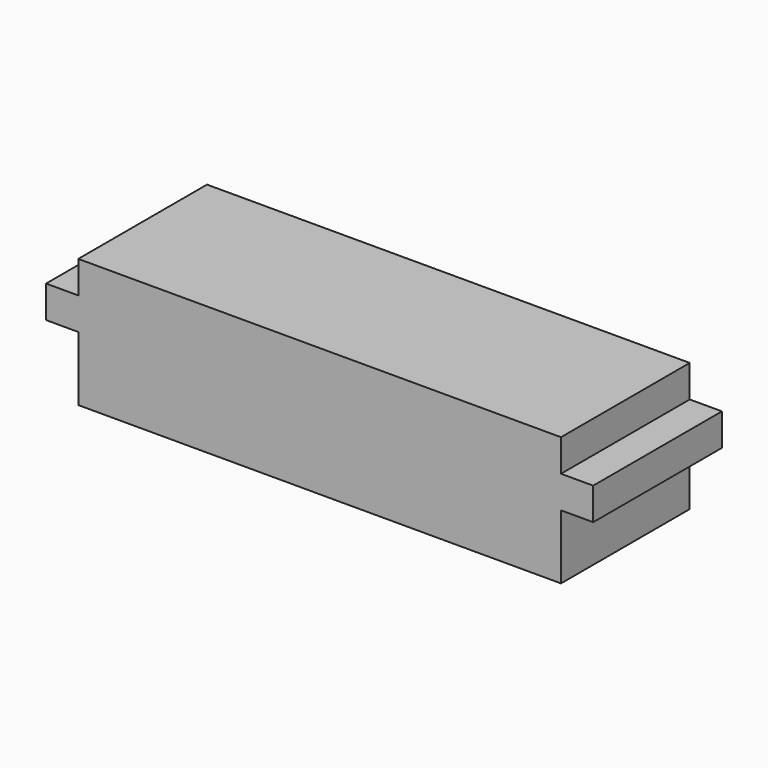
from build123d import *

# Parameters (mm, degrees)
F0_W     = 30
F0_H     = 10
F1_DEPTH = 4
F2_W     = 34
F2_H     = 10
F3_DEPTH = 2
F4_W     = 30
F4_H     = 10
F5_DEPTH = 1.5
F6_W     = 30
F6_H     = 10
F7_DEPTH = 0.5


with BuildPart() as f1:
    # F0 (on Top) → F1 (new body)
    with BuildSketch(Plane.XY):
        Rectangle(F0_W, F0_H)
    extrude(amount=F1_DEPTH)

    # F2 (on face) → F3 (join)
    with BuildSketch(Plane.XY.offset(4)):
        Rectangle(F2_W, F2_H)
    extrude(amount=F3_DEPTH)

    # F4 (on face) → F5 (join)
    with BuildSketch(Plane.XY.offset(6)):
        Rectangle(F4_W, F4_H)
    extrude(amount=F5_DEPTH)

    # F6 (on face) → F7 (join)
    with BuildSketch(Plane.XY.offset(7.5)):
        Rectangle(F6_W, F6_H)
    extrude(amount=F7_DEPTH)


solid = f1.part
